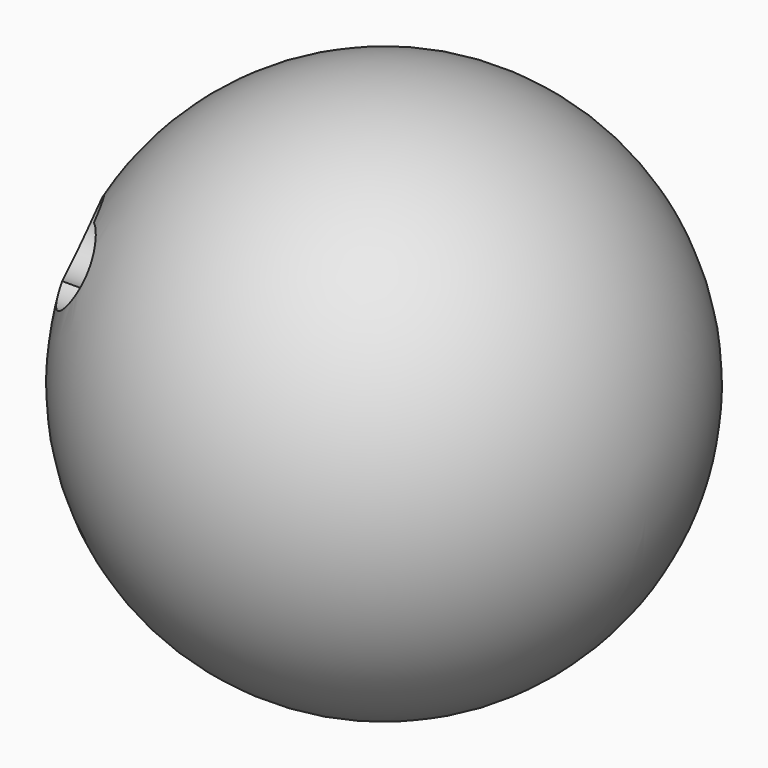
from build123d import *

# Parameters (mm, degrees)
F3_T      = -2.54
F5_D      = 10.2489
F5_DEPTH  = 36.0280179808
F6_D      = 10.2489
F6_DEPTH  = 36.0280179808
F8_D      = 10.2489
F8_DEPTH  = 36.0280179808
F10_D     = 10.2489
F10_DEPTH = 36.0280179808


with BuildPart() as f1:
    # F0 (on Front) → F1 (revolve)
    with BuildSketch(Plane.XZ):
        with BuildLine():
            Line((36.0270179808, 0), (-36.0270179808, 0))
            ThreePointArc((-36.0270179808, 0), (0, -36.0270179808), (36.0270179808, 0))
        make_face()
    revolve(axis=Axis((-1.6512367874, 0, 0), (1, 0, 0)))

    # F3 (hollow: no face is removed)
    offset(amount=F3_T, mode=Mode.SUBTRACT)

    # F5 (through all, one way)
    with BuildSketch(Plane.XZ):
        with Locations((0, 0)):
            Circle(F5_D / 2)
    extrude(amount=-F5_DEPTH, mode=Mode.SUBTRACT)

    # F6 (through all, one way)
    with BuildSketch(Plane.YZ):
        with Locations((12.3517559841, 14.1032496467), (-0.9820711566, 15.7668404281), (-14.9647826329, 14.1032496467)):
            Circle(F6_D / 2)
    extrude(amount=-F6_DEPTH, mode=Mode.SUBTRACT)

    # F8 (through all, one way)
    with BuildSketch(Plane.XZ):
        with Locations((-15.9119330347, 13.3600188419), (0, 13.3600188419), (14.4108068198, 13.3600188419), (15.3114832938, -13.9604695141), (0, -13.9604695141), (-15.9119330347, -13.9604695141)):
            Circle(F8_D / 2)
    extrude(amount=-F8_DEPTH, mode=Mode.SUBTRACT)

    # F10 (through all, one way)
    with BuildSketch(Plane.YZ):
        with Locations((-19.8148600757, 13.6602437124), (0, 13.6602437124), (10.5078797787, 13.6602437124), (12.9096806049, -16.3622703403), (0, -16.3622703403), (-19.8148600757, -16.3622703403)):
            Circle(F10_D / 2)
    extrude(amount=-F10_DEPTH, mode=Mode.SUBTRACT)


solid = f1.part
